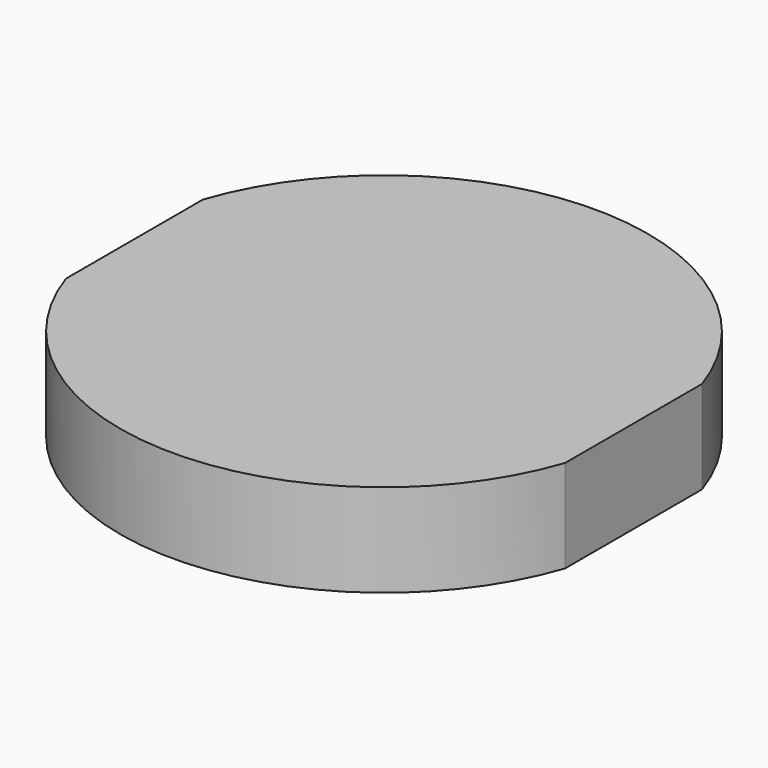
from build123d import *

# Parameters (mm, degrees)
F1_DEPTH = 25


with BuildPart() as f1:
    # F0 (on Top) → F1 (new body)
    with BuildSketch(Plane.XY):
        with BuildLine():
            Line((67.1751350164, -23.0721344739), (67.1751350164, 23.0721344739))
            ThreePointArc((67.1751350164, 23.0721344739), (-2.29364e-05, 71.0269114749), (-67.1751499176, 23.0720910887))
            Line((-67.1751499176, 23.0720910887), (-67.1751499176, -23.0720910887))
            ThreePointArc((-67.1751499176, -23.0720910887), (-2.29364e-05, -71.0269114749), (67.1751350164, -23.0721344739))
        make_face()
    extrude(amount=F1_DEPTH)


solid = f1.part
